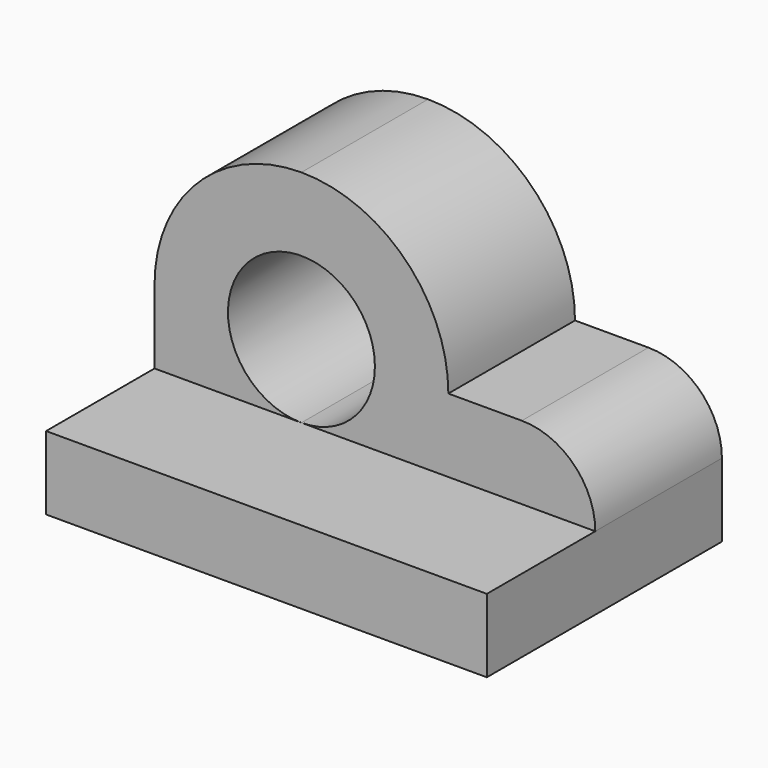
from build123d import *

# Parameters (mm, degrees)
F0_W      = 1524
F0_H      = 1016
F1_DEPTH  = 508
F2_W      = 1524
F2_H      = 468.650964
F3_DEPTH  = 254
F4_R      = 254
F1_FACE_W = 1270
F1_FACE_H = 547.349036
F5_DEPTH  = 508
F7_DEPTH  = 1143
F9_DEPTH  = 1143


with BuildPart() as f1:
    # F0 (on Top) → F1 (new body)
    with BuildSketch(Plane.XY):
        with Locations((762, -508)):
            Rectangle(F0_W, F0_H)
    extrude(amount=F1_DEPTH)

    # F2 (on face) → F3 (cut)
    with BuildSketch(Plane.XY.offset(508)):
        with Locations((762, -781.674518)):
            Rectangle(F2_W, F2_H)
    extrude(amount=-F3_DEPTH, mode=Mode.SUBTRACT)

    # F4
    f4_edges = [f1.edges().sort_by_distance(p)[0] for p in [
        (1524, -273.674518, 508),
    ]]
    fillet(f4_edges, radius=F4_R)

    # F1_face (on face) → F5 (join)
    with BuildSketch(Plane(origin=(762, -508, 508), x_dir=(1, 0, 0), z_dir=(0, 0, 1))):
        with Locations((-127, 234.325482)):
            Rectangle(F1_FACE_W, F1_FACE_H)
    extrude(amount=F5_DEPTH)

    # F6 (on face) → F7 (cut)
    with BuildSketch(Plane.XZ.offset(547.349036)):
        with BuildLine():
            Line((0, 1016), (0, 508))
            ThreePointArc((0, 508), (148.789755, 867.210245), (508, 1016))
            Line((508, 1016), (0, 1016))
        make_face()
        with BuildLine():
            ThreePointArc((508, 1016), (867.210245, 867.210245), (1016, 508))
            Line((1016, 508), (1270, 508))
            Line((1270, 508), (1270, 1016))
            Line((1270, 1016), (508, 1016))
        make_face()
    extrude(amount=-F7_DEPTH, mode=Mode.SUBTRACT)

    # F8 (on face) → F9 (cut)
    with BuildSketch(Plane.XZ.offset(547.349036)):
        with BuildLine():
            ThreePointArc((508, 254), (687.605122, 328.394878), (762, 508))
            ThreePointArc((762, 508), (328.394878, 687.605122), (508, 254))
        make_face()
    extrude(amount=-F9_DEPTH, mode=Mode.SUBTRACT)


solid = f1.part
